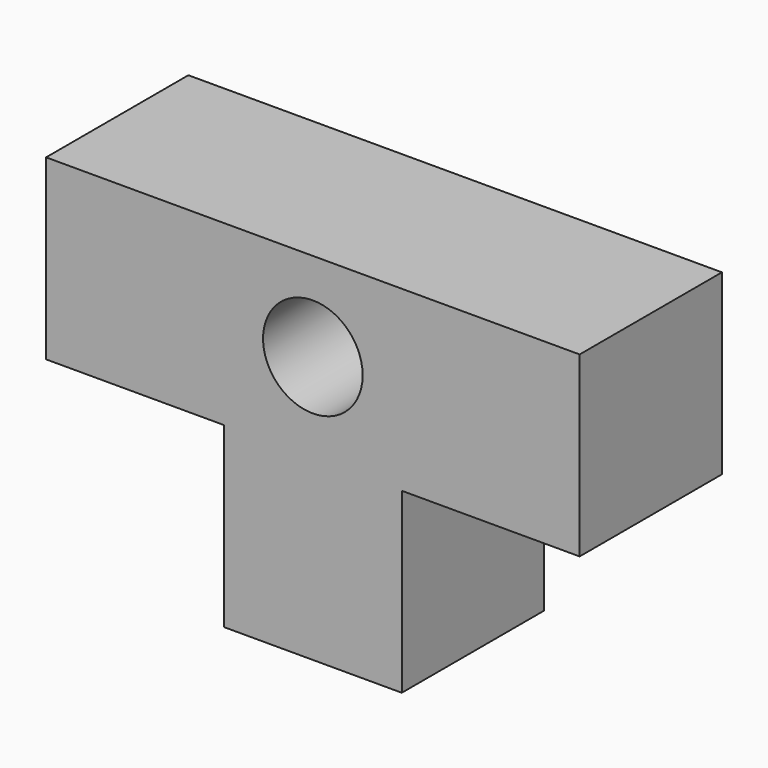
from build123d import *

# Parameters (mm, degrees)
F0_W     = 25.4
F0_H     = 25.4
F1_DEPTH = 25.4
F2_R     = 7.112762
F3_DEPTH = 25.4


with BuildPart() as f1:
    # F0 (on Front) → F1 (new body)
    with BuildSketch(Plane.XZ):
        with Locations((-25.4, 0)):
            Rectangle(F0_W, F0_H)
        Rectangle(F0_W, F0_H)
        with Locations((25.4, 0)):
            Rectangle(F0_W, F0_H)
        with Locations((0, -25.4)):
            Rectangle(F0_W, F0_H)
    extrude(amount=F1_DEPTH)

    # F2 (on face) → F3 (cut)
    with BuildSketch(Plane.XZ.offset(25.4)):
        Circle(F2_R)
    extrude(amount=-F3_DEPTH, mode=Mode.SUBTRACT)


solid = f1.part
